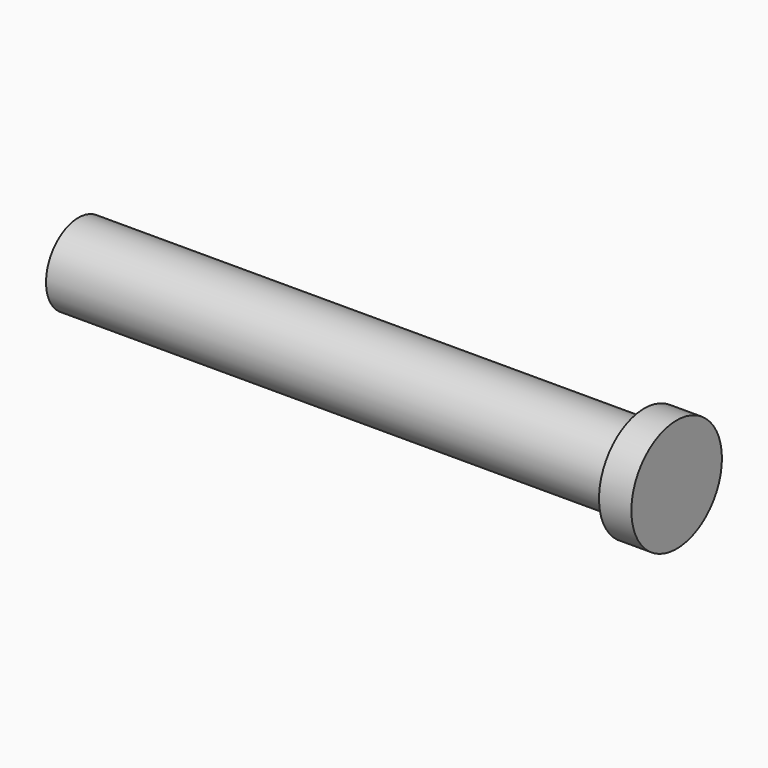
from build123d import *

# Parameters (mm, degrees)
F0_R     = 4.445
F0_R_2   = 3.175
F1_DEPTH = 2.54
F2_DEPTH = 44.45


with BuildPart() as f1:
    # F0 (on Right) → F1 (new body)
    with BuildSketch(Plane.YZ):
        Circle(F0_R)
        Circle(F0_R_2, mode=Mode.SUBTRACT)
        Circle(F0_R_2)
    extrude(amount=F1_DEPTH)

    # F0 (on Right) → F2 (join)
    with BuildSketch(Plane.YZ):
        Circle(F0_R_2)
    extrude(amount=-F2_DEPTH)


solid = f1.part
